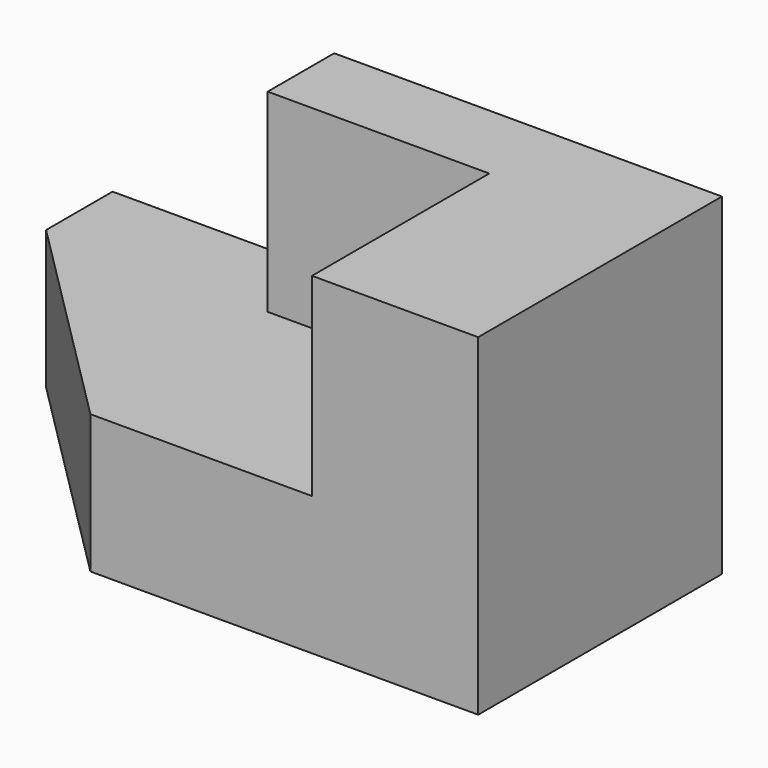
from build123d import *

# Parameters (mm, degrees)
F0_W     = 1016
F0_H     = 889
F1_DEPTH = 1397
F2_W     = 1016
F2_H     = 889
F4_DEPTH = 1016
F6_DEPTH = 1419.86


with BuildPart() as f1:
    # F0 (on Front) → F1 (new body)
    with BuildSketch(Plane.XZ):
        with Locations((204.967808, 604.418884)):
            Rectangle(F0_W, F0_H)
        Polygon((-1319.032192, 159.918884), (-1319.032192, -475.081116), (1474.967808, -475.081116), (1474.967808, 1048.918884), (712.967808, 1048.918884), (712.967808, 159.918884), (-303.032192, 159.918884), align=None)
    extrude(amount=F1_DEPTH)

    # F2 (on face) → F4 (cut)
    with BuildSketch(Plane.XZ.offset(1397)):
        with Locations((204.967808, 604.418884)):
            Rectangle(F2_W, F2_H)
    extrude(amount=-F4_DEPTH, mode=Mode.SUBTRACT)

    # F5 (on face) → F6 (cut)
    with BuildSketch(Plane.XY.offset(159.918884)):
        Polygon((-303.032192, -1397), (-1319.032192, -381), (-1319.032192, -1397), align=None)
    extrude(amount=-F6_DEPTH, mode=Mode.SUBTRACT)


solid = f1.part
